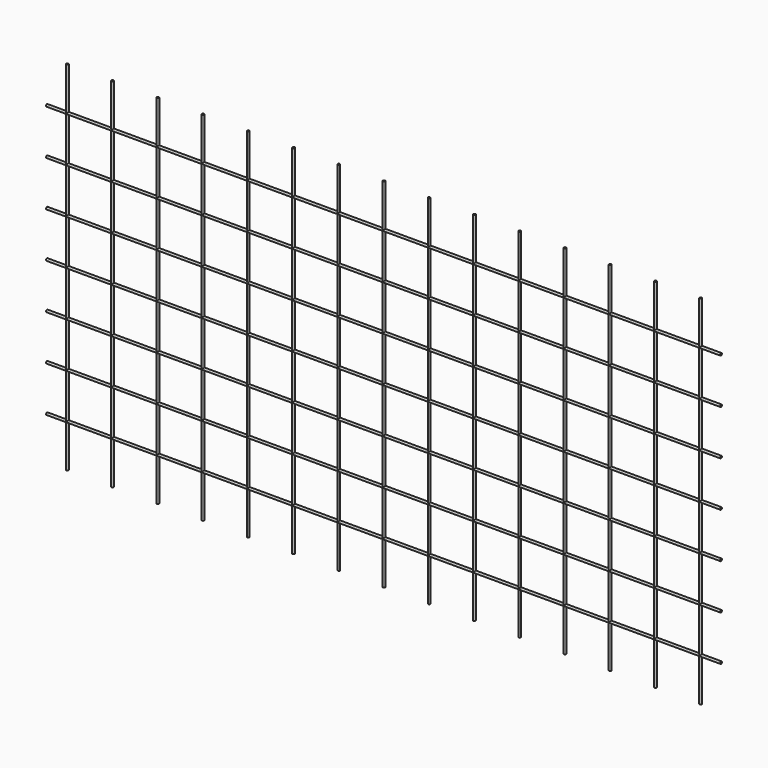
from build123d import *

# Parameters (mm, degrees)
F1_R = 5
F2_R = 5


with BuildPart() as f3:
    # F3: sweep along a path in F0
    with BuildLine(Plane.XZ) as f3_path:
        Line((-1400, 1580), (-1400, 0))
    # F1 (on Top) → F3 (sweep)
    with BuildSketch(Plane.XY):
        Circle(F1_R)
        with Locations((-200, 0)):
            Circle(F1_R)
        with Locations((-400, 0)):
            Circle(F1_R)
        with Locations((-600, 0)):
            Circle(F1_R)
        with Locations((-800, 0)):
            Circle(F1_R)
        with Locations((-1000, 0)):
            Circle(F1_R)
        with Locations((-1200, 0)):
            Circle(F1_R)
        with Locations((-1400, 0)):
            Circle(F1_R)
    sweep(path=f3_path.line)

    # F4: sweep along a path in F0
    with BuildLine(Plane.XZ) as f4_path:
        Line((0, 590), (-1490, 590))
    # F2 (on Right) → F4 (sweep)
    with BuildSketch(Plane.YZ):
        with Locations((0, 190)):
            Circle(F2_R)
        with Locations((0, 390)):
            Circle(F2_R)
        with Locations((0, 590)):
            Circle(F2_R)
        with Locations((0, 790)):
            Circle(F2_R)
        with Locations((0, 990)):
            Circle(F2_R)
        with Locations((0, 1190)):
            Circle(F2_R)
        with Locations((0, 1390)):
            Circle(F2_R)
    sweep(path=f4_path.line)

    # F5: F3 across plane


with BuildPart() as f3_1:
    add(f3.part)
    add(f3.part.mirror(Plane.YZ))


solid = f3_1.part
